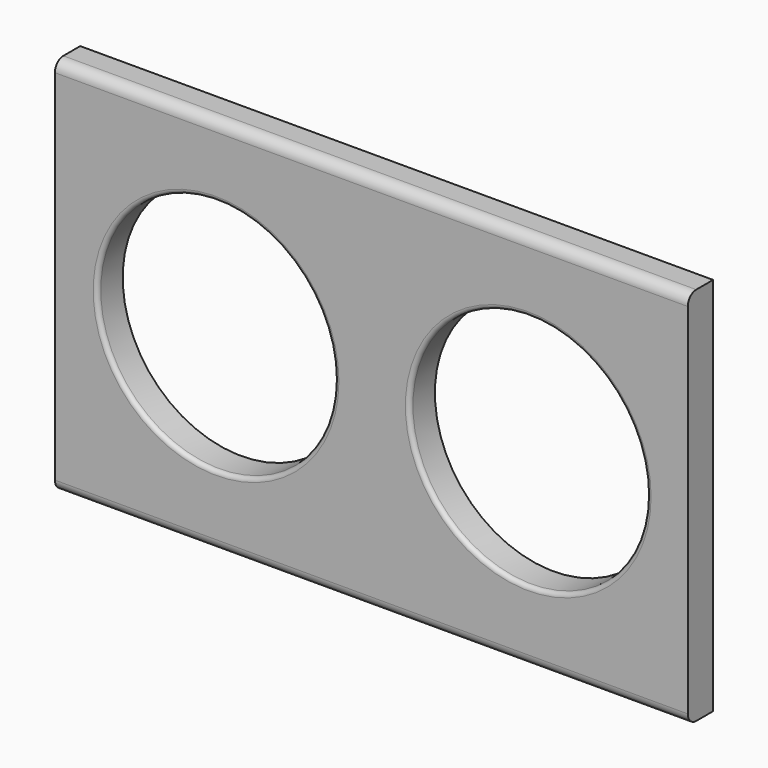
from build123d import *

# Parameters (mm, degrees)
F0_W     = 762
F0_H     = 457.2
F0_R     = 142.875
F1_DEPTH = 38.1
F2_R     = 12.7
F3_R     = 5.08


with BuildPart() as f1:
    # F0 (on Front) → F1 (new body)
    with BuildSketch(Plane.XZ):
        Rectangle(F0_W, F0_H)
        with Locations((-186.950803, 0)):
            Circle(F0_R, mode=Mode.SUBTRACT)
        with Locations((188.911736, 0)):
            Circle(F0_R, mode=Mode.SUBTRACT)
    extrude(amount=F1_DEPTH)

    # F2
    f2_edges = [f1.edges().sort_by_distance(p)[0] for p in [
        (0, -38.1, 228.6),
        (0, -38.1, -228.6),
    ]]
    fillet(f2_edges, radius=F2_R)

    # F3
    f3_edges = [f1.edges().sort_by_distance(p)[0] for p in [
        (-329.825803, -38.1, 0),
        (46.036736, -38.1, 0),
    ]]
    fillet(f3_edges, radius=F3_R)


solid = f1.part
